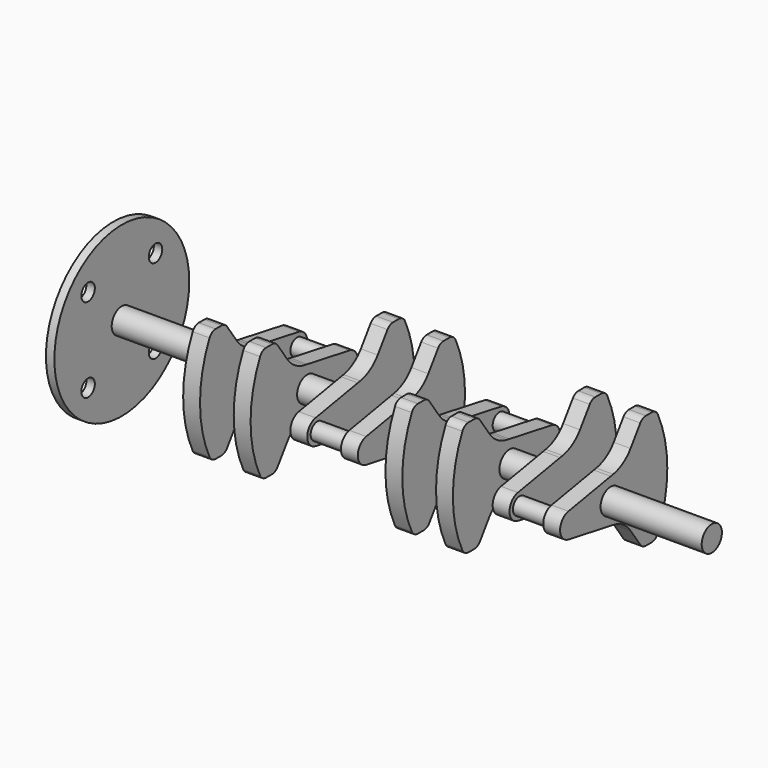
from build123d import *

# Parameters (mm, degrees)
F0_R      = 7.5
F1_DEPTH  = 70
F2_START  = 70
F0_R_2    = 5
F2_DEPTH  = 10
F3_START  = 80
F3_DEPTH  = 20
F4_START  = 100
F4_DEPTH  = 10
F5_START  = 110
F5_DEPTH  = 20
F6_START  = 130
F6_DEPTH  = 10
F7_START  = 140
F7_DEPTH  = 20
F8_START  = 160
F8_DEPTH  = 10
F9_START  = 170
F9_DEPTH  = 20
F10_START = 190
F10_DEPTH = 10
F11_START = 200
F11_DEPTH = 20
F12_START = 220
F12_DEPTH = 10
F13_START = 230
F13_DEPTH = 20
F14_START = 250
F14_DEPTH = 10
F15_START = 260
F15_DEPTH = 20
F16_START = 280
F16_DEPTH = 10
F17_START = 290
F17_DEPTH = 60
F18_R     = 20
F19_R     = 5
F0_R_3    = 50
F20_DEPTH = 5
F21_R     = 5
F22_DEPTH = 5


with BuildPart() as f1:
    # F0 (on Right) → F1 (new body)
    with BuildSketch(Plane.YZ):
        Circle(F0_R)
    extrude(amount=F1_DEPTH)

    # F0 (on Right) → F2 (join)
    with BuildSketch(Plane.YZ.offset(F2_START)):
        with BuildLine():
            Line((-31.3023613325, 7.3860581476), (0, 12.9055090104))
            Line((0, 12.9055090104), (-10, 14.6687788175))
            Line((-10, 14.6687788175), (-23.4965642846, 33.9438701984))
            Line((-23.4965642846, 33.9438701984), (-33.4965642846, 33.9438701984))
            ThreePointArc((-33.4965642846, 33.9438701984), (-42, 0), (-33.4965642846, -33.9438701984))
            Line((-33.4965642846, -33.9438701984), (-23.4965642846, -33.9438701984))
            Line((-23.4965642846, -33.9438701984), (-10, -14.6687788175))
            Line((-10, -14.6687788175), (0, -12.9055090104))
            Line((0, -12.9055090104), (-31.3023613325, -7.3860581476))
            ThreePointArc((-31.3023613325, -7.3860581476), (-37.5, 0), (-31.3023613325, 7.3860581476))
        make_face()
        with Locations((-25, -25)):
            Circle(F0_R_2, mode=Mode.SUBTRACT)
        with Locations((-25, 25)):
            Circle(F0_R_2, mode=Mode.SUBTRACT)
        with BuildLine():
            ThreePointArc((31.3023613325, -7.3860581476), (37.5, 0), (31.3023613325, 7.3860581476))
            Line((31.3023613325, 7.3860581476), (0, 12.9055090104))
            Line((0, 12.9055090104), (-31.3023613325, 7.3860581476))
            ThreePointArc((-31.3023613325, 7.3860581476), (-37.5, 0), (-31.3023613325, -7.3860581476))
            Line((-31.3023613325, -7.3860581476), (0, -12.9055090104))
            Line((0, -12.9055090104), (31.3023613325, -7.3860581476))
        make_face()
        with Locations((-30, 0)):
            Circle(F0_R_2, mode=Mode.SUBTRACT)
        Circle(F0_R, mode=Mode.SUBTRACT)
        with Locations((30, 0)):
            Circle(F0_R_2, mode=Mode.SUBTRACT)
        with BuildLine():
            Line((-31.3023613325, 7.3860581476), (0, 12.9055090104))
            Line((0, 12.9055090104), (-10, 14.6687788175))
            Line((-10, 14.6687788175), (-23.4965642846, 33.9438701984))
            Line((-23.4965642846, 33.9438701984), (-33.4965642846, 33.9438701984))
            ThreePointArc((-33.4965642846, 33.9438701984), (-42, 0), (-33.4965642846, -33.9438701984))
            Line((-33.4965642846, -33.9438701984), (-23.4965642846, -33.9438701984))
            Line((-23.4965642846, -33.9438701984), (-10, -14.6687788175))
            Line((-10, -14.6687788175), (0, -12.9055090104))
            Line((0, -12.9055090104), (-31.3023613325, -7.3860581476))
            ThreePointArc((-31.3023613325, -7.3860581476), (-37.5, 0), (-31.3023613325, 7.3860581476))
        make_face()
        with Locations((-25, -25)):
            Circle(F0_R_2, mode=Mode.SUBTRACT)
        with Locations((-25, 25)):
            Circle(F0_R_2, mode=Mode.SUBTRACT)
        with BuildLine():
            ThreePointArc((31.3023613325, -7.3860581476), (37.5, 0), (31.3023613325, 7.3860581476))
            Line((31.3023613325, 7.3860581476), (0, 12.9055090104))
            Line((0, 12.9055090104), (-31.3023613325, 7.3860581476))
            ThreePointArc((-31.3023613325, 7.3860581476), (-37.5, 0), (-31.3023613325, -7.3860581476))
            Line((-31.3023613325, -7.3860581476), (0, -12.9055090104))
            Line((0, -12.9055090104), (31.3023613325, -7.3860581476))
        make_face()
        with Locations((-30, 0)):
            Circle(F0_R_2, mode=Mode.SUBTRACT)
        Circle(F0_R, mode=Mode.SUBTRACT)
        with Locations((30, 0)):
            Circle(F0_R_2, mode=Mode.SUBTRACT)
        with Locations((30, 0)):
            Circle(F0_R_2)
        Circle(F0_R)
        with Locations((-25, 25)):
            Circle(F0_R_2)
        with Locations((-25, -25)):
            Circle(F0_R_2)
        with Locations((-30, 0)):
            Circle(F0_R_2)
    extrude(amount=F2_DEPTH)

    # F0 (on Right) → F3 (join)
    with BuildSketch(Plane.YZ.offset(F3_START)):
        with Locations((30, 0)):
            Circle(F0_R_2)
    extrude(amount=F3_DEPTH)

    # F0 (on Right) → F4 (join)
    with BuildSketch(Plane.YZ.offset(F4_START)):
        with BuildLine():
            Line((-31.3023613325, 7.3860581476), (0, 12.9055090104))
            Line((0, 12.9055090104), (-10, 14.6687788175))
            Line((-10, 14.6687788175), (-23.4965642846, 33.9438701984))
            Line((-23.4965642846, 33.9438701984), (-33.4965642846, 33.9438701984))
            ThreePointArc((-33.4965642846, 33.9438701984), (-42, 0), (-33.4965642846, -33.9438701984))
            Line((-33.4965642846, -33.9438701984), (-23.4965642846, -33.9438701984))
            Line((-23.4965642846, -33.9438701984), (-10, -14.6687788175))
            Line((-10, -14.6687788175), (0, -12.9055090104))
            Line((0, -12.9055090104), (-31.3023613325, -7.3860581476))
            ThreePointArc((-31.3023613325, -7.3860581476), (-37.5, 0), (-31.3023613325, 7.3860581476))
        make_face()
        with Locations((-25, -25)):
            Circle(F0_R_2, mode=Mode.SUBTRACT)
        with Locations((-25, 25)):
            Circle(F0_R_2, mode=Mode.SUBTRACT)
        with BuildLine():
            ThreePointArc((31.3023613325, -7.3860581476), (37.5, 0), (31.3023613325, 7.3860581476))
            Line((31.3023613325, 7.3860581476), (0, 12.9055090104))
            Line((0, 12.9055090104), (-31.3023613325, 7.3860581476))
            ThreePointArc((-31.3023613325, 7.3860581476), (-37.5, 0), (-31.3023613325, -7.3860581476))
            Line((-31.3023613325, -7.3860581476), (0, -12.9055090104))
            Line((0, -12.9055090104), (31.3023613325, -7.3860581476))
        make_face()
        with Locations((-30, 0)):
            Circle(F0_R_2, mode=Mode.SUBTRACT)
        Circle(F0_R, mode=Mode.SUBTRACT)
        with Locations((30, 0)):
            Circle(F0_R_2, mode=Mode.SUBTRACT)
        with BuildLine():
            Line((-31.3023613325, 7.3860581476), (0, 12.9055090104))
            Line((0, 12.9055090104), (-10, 14.6687788175))
            Line((-10, 14.6687788175), (-23.4965642846, 33.9438701984))
            Line((-23.4965642846, 33.9438701984), (-33.4965642846, 33.9438701984))
            ThreePointArc((-33.4965642846, 33.9438701984), (-42, 0), (-33.4965642846, -33.9438701984))
            Line((-33.4965642846, -33.9438701984), (-23.4965642846, -33.9438701984))
            Line((-23.4965642846, -33.9438701984), (-10, -14.6687788175))
            Line((-10, -14.6687788175), (0, -12.9055090104))
            Line((0, -12.9055090104), (-31.3023613325, -7.3860581476))
            ThreePointArc((-31.3023613325, -7.3860581476), (-37.5, 0), (-31.3023613325, 7.3860581476))
        make_face()
        with Locations((-25, -25)):
            Circle(F0_R_2, mode=Mode.SUBTRACT)
        with Locations((-25, 25)):
            Circle(F0_R_2, mode=Mode.SUBTRACT)
        with BuildLine():
            ThreePointArc((31.3023613325, -7.3860581476), (37.5, 0), (31.3023613325, 7.3860581476))
            Line((31.3023613325, 7.3860581476), (0, 12.9055090104))
            Line((0, 12.9055090104), (-31.3023613325, 7.3860581476))
            ThreePointArc((-31.3023613325, 7.3860581476), (-37.5, 0), (-31.3023613325, -7.3860581476))
            Line((-31.3023613325, -7.3860581476), (0, -12.9055090104))
            Line((0, -12.9055090104), (31.3023613325, -7.3860581476))
        make_face()
        with Locations((-30, 0)):
            Circle(F0_R_2, mode=Mode.SUBTRACT)
        Circle(F0_R, mode=Mode.SUBTRACT)
        with Locations((30, 0)):
            Circle(F0_R_2, mode=Mode.SUBTRACT)
        with Locations((30, 0)):
            Circle(F0_R_2)
        Circle(F0_R)
        with Locations((-30, 0)):
            Circle(F0_R_2)
        with Locations((-25, 25)):
            Circle(F0_R_2)
        with Locations((-25, -25)):
            Circle(F0_R_2)
    extrude(amount=F4_DEPTH)

    # F0 (on Right) → F5 (join)
    with BuildSketch(Plane.YZ.offset(F5_START)):
        Circle(F0_R)
    extrude(amount=F5_DEPTH)

    # F0 (on Right) → F6 (join)
    with BuildSketch(Plane.YZ.offset(F6_START)):
        with BuildLine():
            Line((0, 12.9055090104), (31.3023613325, 7.3860581476))
            ThreePointArc((31.3023613325, 7.3860581476), (37.5, 0), (31.3023613325, -7.3860581476))
            Line((31.3023613325, -7.3860581476), (0, -12.9055090104))
            Line((0, -12.9055090104), (10, -14.6687788175))
            Line((10, -14.6687788175), (23.4965642846, -33.9438701984))
            Line((23.4965642846, -33.9438701984), (33.4965642846, -33.9438701984))
            ThreePointArc((33.4965642846, -33.9438701984), (42, 0), (33.4965642846, 33.9438701984))
            Line((33.4965642846, 33.9438701984), (23.4965642846, 33.9438701984))
            Line((23.4965642846, 33.9438701984), (10, 14.6687788175))
            Line((10, 14.6687788175), (0, 12.9055090104))
        make_face()
        with Locations((25, -25)):
            Circle(F0_R_2, mode=Mode.SUBTRACT)
        with Locations((25, 25)):
            Circle(F0_R_2, mode=Mode.SUBTRACT)
        with BuildLine():
            ThreePointArc((31.3023613325, -7.3860581476), (37.5, 0), (31.3023613325, 7.3860581476))
            Line((31.3023613325, 7.3860581476), (0, 12.9055090104))
            Line((0, 12.9055090104), (-31.3023613325, 7.3860581476))
            ThreePointArc((-31.3023613325, 7.3860581476), (-37.5, 0), (-31.3023613325, -7.3860581476))
            Line((-31.3023613325, -7.3860581476), (0, -12.9055090104))
            Line((0, -12.9055090104), (31.3023613325, -7.3860581476))
        make_face()
        with Locations((-30, 0)):
            Circle(F0_R_2, mode=Mode.SUBTRACT)
        Circle(F0_R, mode=Mode.SUBTRACT)
        with Locations((30, 0)):
            Circle(F0_R_2, mode=Mode.SUBTRACT)
        with BuildLine():
            Line((0, 12.9055090104), (31.3023613325, 7.3860581476))
            ThreePointArc((31.3023613325, 7.3860581476), (37.5, 0), (31.3023613325, -7.3860581476))
            Line((31.3023613325, -7.3860581476), (0, -12.9055090104))
            Line((0, -12.9055090104), (10, -14.6687788175))
            Line((10, -14.6687788175), (23.4965642846, -33.9438701984))
            Line((23.4965642846, -33.9438701984), (33.4965642846, -33.9438701984))
            ThreePointArc((33.4965642846, -33.9438701984), (42, 0), (33.4965642846, 33.9438701984))
            Line((33.4965642846, 33.9438701984), (23.4965642846, 33.9438701984))
            Line((23.4965642846, 33.9438701984), (10, 14.6687788175))
            Line((10, 14.6687788175), (0, 12.9055090104))
        make_face()
        with Locations((25, -25)):
            Circle(F0_R_2, mode=Mode.SUBTRACT)
        with Locations((25, 25)):
            Circle(F0_R_2, mode=Mode.SUBTRACT)
        with BuildLine():
            ThreePointArc((31.3023613325, -7.3860581476), (37.5, 0), (31.3023613325, 7.3860581476))
            Line((31.3023613325, 7.3860581476), (0, 12.9055090104))
            Line((0, 12.9055090104), (-31.3023613325, 7.3860581476))
            ThreePointArc((-31.3023613325, 7.3860581476), (-37.5, 0), (-31.3023613325, -7.3860581476))
            Line((-31.3023613325, -7.3860581476), (0, -12.9055090104))
            Line((0, -12.9055090104), (31.3023613325, -7.3860581476))
        make_face()
        with Locations((-30, 0)):
            Circle(F0_R_2, mode=Mode.SUBTRACT)
        Circle(F0_R, mode=Mode.SUBTRACT)
        with Locations((30, 0)):
            Circle(F0_R_2, mode=Mode.SUBTRACT)
        with Locations((-30, 0)):
            Circle(F0_R_2)
        Circle(F0_R)
        with Locations((25, 25)):
            Circle(F0_R_2)
        with Locations((30, 0)):
            Circle(F0_R_2)
        with Locations((25, -25)):
            Circle(F0_R_2)
    extrude(amount=F6_DEPTH)

    # F0 (on Right) → F7 (join)
    with BuildSketch(Plane.YZ.offset(F7_START)):
        with Locations((-30, 0)):
            Circle(F0_R_2)
    extrude(amount=F7_DEPTH)

    # F0 (on Right) → F8 (join)
    with BuildSketch(Plane.YZ.offset(F8_START)):
        with BuildLine():
            ThreePointArc((31.3023613325, -7.3860581476), (37.5, 0), (31.3023613325, 7.3860581476))
            Line((31.3023613325, 7.3860581476), (0, 12.9055090104))
            Line((0, 12.9055090104), (-31.3023613325, 7.3860581476))
            ThreePointArc((-31.3023613325, 7.3860581476), (-37.5, 0), (-31.3023613325, -7.3860581476))
            Line((-31.3023613325, -7.3860581476), (0, -12.9055090104))
            Line((0, -12.9055090104), (31.3023613325, -7.3860581476))
        make_face()
        with Locations((-30, 0)):
            Circle(F0_R_2, mode=Mode.SUBTRACT)
        Circle(F0_R, mode=Mode.SUBTRACT)
        with Locations((30, 0)):
            Circle(F0_R_2, mode=Mode.SUBTRACT)
        with BuildLine():
            ThreePointArc((31.3023613325, -7.3860581476), (37.5, 0), (31.3023613325, 7.3860581476))
            Line((31.3023613325, 7.3860581476), (0, 12.9055090104))
            Line((0, 12.9055090104), (-31.3023613325, 7.3860581476))
            ThreePointArc((-31.3023613325, 7.3860581476), (-37.5, 0), (-31.3023613325, -7.3860581476))
            Line((-31.3023613325, -7.3860581476), (0, -12.9055090104))
            Line((0, -12.9055090104), (31.3023613325, -7.3860581476))
        make_face()
        with Locations((-30, 0)):
            Circle(F0_R_2, mode=Mode.SUBTRACT)
        Circle(F0_R, mode=Mode.SUBTRACT)
        with Locations((30, 0)):
            Circle(F0_R_2, mode=Mode.SUBTRACT)
        with BuildLine():
            Line((0, 12.9055090104), (31.3023613325, 7.3860581476))
            ThreePointArc((31.3023613325, 7.3860581476), (37.5, 0), (31.3023613325, -7.3860581476))
            Line((31.3023613325, -7.3860581476), (0, -12.9055090104))
            Line((0, -12.9055090104), (10, -14.6687788175))
            Line((10, -14.6687788175), (23.4965642846, -33.9438701984))
            Line((23.4965642846, -33.9438701984), (33.4965642846, -33.9438701984))
            ThreePointArc((33.4965642846, -33.9438701984), (42, 0), (33.4965642846, 33.9438701984))
            Line((33.4965642846, 33.9438701984), (23.4965642846, 33.9438701984))
            Line((23.4965642846, 33.9438701984), (10, 14.6687788175))
            Line((10, 14.6687788175), (0, 12.9055090104))
        make_face()
        with Locations((25, -25)):
            Circle(F0_R_2, mode=Mode.SUBTRACT)
        with Locations((25, 25)):
            Circle(F0_R_2, mode=Mode.SUBTRACT)
        with Locations((-30, 0)):
            Circle(F0_R_2)
        Circle(F0_R)
        with BuildLine():
            Line((0, 12.9055090104), (31.3023613325, 7.3860581476))
            ThreePointArc((31.3023613325, 7.3860581476), (37.5, 0), (31.3023613325, -7.3860581476))
            Line((31.3023613325, -7.3860581476), (0, -12.9055090104))
            Line((0, -12.9055090104), (10, -14.6687788175))
            Line((10, -14.6687788175), (23.4965642846, -33.9438701984))
            Line((23.4965642846, -33.9438701984), (33.4965642846, -33.9438701984))
            ThreePointArc((33.4965642846, -33.9438701984), (42, 0), (33.4965642846, 33.9438701984))
            Line((33.4965642846, 33.9438701984), (23.4965642846, 33.9438701984))
            Line((23.4965642846, 33.9438701984), (10, 14.6687788175))
            Line((10, 14.6687788175), (0, 12.9055090104))
        make_face()
        with Locations((25, -25)):
            Circle(F0_R_2, mode=Mode.SUBTRACT)
        with Locations((25, 25)):
            Circle(F0_R_2, mode=Mode.SUBTRACT)
        with Locations((25, 25)):
            Circle(F0_R_2)
        with Locations((30, 0)):
            Circle(F0_R_2)
        with Locations((25, -25)):
            Circle(F0_R_2)
    extrude(amount=F8_DEPTH)

    # F0 (on Right) → F9 (join)
    with BuildSketch(Plane.YZ.offset(F9_START)):
        Circle(F0_R)
    extrude(amount=F9_DEPTH)

    # F0 (on Right) → F10 (join)
    with BuildSketch(Plane.YZ.offset(F10_START)):
        with BuildLine():
            ThreePointArc((31.3023613325, -7.3860581476), (37.5, 0), (31.3023613325, 7.3860581476))
            Line((31.3023613325, 7.3860581476), (0, 12.9055090104))
            Line((0, 12.9055090104), (-31.3023613325, 7.3860581476))
            ThreePointArc((-31.3023613325, 7.3860581476), (-37.5, 0), (-31.3023613325, -7.3860581476))
            Line((-31.3023613325, -7.3860581476), (0, -12.9055090104))
            Line((0, -12.9055090104), (31.3023613325, -7.3860581476))
        make_face()
        with Locations((-30, 0)):
            Circle(F0_R_2, mode=Mode.SUBTRACT)
        Circle(F0_R, mode=Mode.SUBTRACT)
        with Locations((30, 0)):
            Circle(F0_R_2, mode=Mode.SUBTRACT)
        with BuildLine():
            Line((-31.3023613325, 7.3860581476), (0, 12.9055090104))
            Line((0, 12.9055090104), (-10, 14.6687788175))
            Line((-10, 14.6687788175), (-23.4965642846, 33.9438701984))
            Line((-23.4965642846, 33.9438701984), (-33.4965642846, 33.9438701984))
            ThreePointArc((-33.4965642846, 33.9438701984), (-42, 0), (-33.4965642846, -33.9438701984))
            Line((-33.4965642846, -33.9438701984), (-23.4965642846, -33.9438701984))
            Line((-23.4965642846, -33.9438701984), (-10, -14.6687788175))
            Line((-10, -14.6687788175), (0, -12.9055090104))
            Line((0, -12.9055090104), (-31.3023613325, -7.3860581476))
            ThreePointArc((-31.3023613325, -7.3860581476), (-37.5, 0), (-31.3023613325, 7.3860581476))
        make_face()
        with Locations((-25, -25)):
            Circle(F0_R_2, mode=Mode.SUBTRACT)
        with Locations((-25, 25)):
            Circle(F0_R_2, mode=Mode.SUBTRACT)
        Circle(F0_R)
        with Locations((-25, 25)):
            Circle(F0_R_2)
        with Locations((-30, 0)):
            Circle(F0_R_2)
        with Locations((-25, -25)):
            Circle(F0_R_2)
        with Locations((30, 0)):
            Circle(F0_R_2)
    extrude(amount=F10_DEPTH)

    # F0 (on Right) → F11 (join)
    with BuildSketch(Plane.YZ.offset(F11_START)):
        with Locations((30, 0)):
            Circle(F0_R_2)
    extrude(amount=F11_DEPTH)

    # F0 (on Right) → F12 (join)
    with BuildSketch(Plane.YZ.offset(F12_START)):
        with BuildLine():
            ThreePointArc((31.3023613325, -7.3860581476), (37.5, 0), (31.3023613325, 7.3860581476))
            Line((31.3023613325, 7.3860581476), (0, 12.9055090104))
            Line((0, 12.9055090104), (-31.3023613325, 7.3860581476))
            ThreePointArc((-31.3023613325, 7.3860581476), (-37.5, 0), (-31.3023613325, -7.3860581476))
            Line((-31.3023613325, -7.3860581476), (0, -12.9055090104))
            Line((0, -12.9055090104), (31.3023613325, -7.3860581476))
        make_face()
        with Locations((-30, 0)):
            Circle(F0_R_2, mode=Mode.SUBTRACT)
        Circle(F0_R, mode=Mode.SUBTRACT)
        with Locations((30, 0)):
            Circle(F0_R_2, mode=Mode.SUBTRACT)
        with BuildLine():
            Line((-31.3023613325, 7.3860581476), (0, 12.9055090104))
            Line((0, 12.9055090104), (-10, 14.6687788175))
            Line((-10, 14.6687788175), (-23.4965642846, 33.9438701984))
            Line((-23.4965642846, 33.9438701984), (-33.4965642846, 33.9438701984))
            ThreePointArc((-33.4965642846, 33.9438701984), (-42, 0), (-33.4965642846, -33.9438701984))
            Line((-33.4965642846, -33.9438701984), (-23.4965642846, -33.9438701984))
            Line((-23.4965642846, -33.9438701984), (-10, -14.6687788175))
            Line((-10, -14.6687788175), (0, -12.9055090104))
            Line((0, -12.9055090104), (-31.3023613325, -7.3860581476))
            ThreePointArc((-31.3023613325, -7.3860581476), (-37.5, 0), (-31.3023613325, 7.3860581476))
        make_face()
        with Locations((-25, -25)):
            Circle(F0_R_2, mode=Mode.SUBTRACT)
        with Locations((-25, 25)):
            Circle(F0_R_2, mode=Mode.SUBTRACT)
        Circle(F0_R)
        with Locations((30, 0)):
            Circle(F0_R_2)
        with Locations((-25, -25)):
            Circle(F0_R_2)
        with Locations((-30, 0)):
            Circle(F0_R_2)
        with Locations((-25, 25)):
            Circle(F0_R_2)
    extrude(amount=F12_DEPTH)

    # F0 (on Right) → F13 (join)
    with BuildSketch(Plane.YZ.offset(F13_START)):
        Circle(F0_R)
    extrude(amount=F13_DEPTH)

    # F0 (on Right) → F14 (join)
    with BuildSketch(Plane.YZ.offset(F14_START)):
        with BuildLine():
            ThreePointArc((31.3023613325, -7.3860581476), (37.5, 0), (31.3023613325, 7.3860581476))
            Line((31.3023613325, 7.3860581476), (0, 12.9055090104))
            Line((0, 12.9055090104), (-31.3023613325, 7.3860581476))
            ThreePointArc((-31.3023613325, 7.3860581476), (-37.5, 0), (-31.3023613325, -7.3860581476))
            Line((-31.3023613325, -7.3860581476), (0, -12.9055090104))
            Line((0, -12.9055090104), (31.3023613325, -7.3860581476))
        make_face()
        with Locations((-30, 0)):
            Circle(F0_R_2, mode=Mode.SUBTRACT)
        Circle(F0_R, mode=Mode.SUBTRACT)
        with Locations((30, 0)):
            Circle(F0_R_2, mode=Mode.SUBTRACT)
        with BuildLine():
            Line((0, 12.9055090104), (31.3023613325, 7.3860581476))
            ThreePointArc((31.3023613325, 7.3860581476), (37.5, 0), (31.3023613325, -7.3860581476))
            Line((31.3023613325, -7.3860581476), (0, -12.9055090104))
            Line((0, -12.9055090104), (10, -14.6687788175))
            Line((10, -14.6687788175), (23.4965642846, -33.9438701984))
            Line((23.4965642846, -33.9438701984), (33.4965642846, -33.9438701984))
            ThreePointArc((33.4965642846, -33.9438701984), (42, 0), (33.4965642846, 33.9438701984))
            Line((33.4965642846, 33.9438701984), (23.4965642846, 33.9438701984))
            Line((23.4965642846, 33.9438701984), (10, 14.6687788175))
            Line((10, 14.6687788175), (0, 12.9055090104))
        make_face()
        with Locations((25, -25)):
            Circle(F0_R_2, mode=Mode.SUBTRACT)
        with Locations((25, 25)):
            Circle(F0_R_2, mode=Mode.SUBTRACT)
        Circle(F0_R)
        with Locations((30, 0)):
            Circle(F0_R_2)
        with Locations((25, 25)):
            Circle(F0_R_2)
        with Locations((25, -25)):
            Circle(F0_R_2)
        with Locations((-30, 0)):
            Circle(F0_R_2)
    extrude(amount=F14_DEPTH)

    # F0 (on Right) → F15 (join)
    with BuildSketch(Plane.YZ.offset(F15_START)):
        with Locations((-30, 0)):
            Circle(F0_R_2)
    extrude(amount=F15_DEPTH)

    # F0 (on Right) → F16 (join)
    with BuildSketch(Plane.YZ.offset(F16_START)):
        with BuildLine():
            ThreePointArc((31.3023613325, -7.3860581476), (37.5, 0), (31.3023613325, 7.3860581476))
            Line((31.3023613325, 7.3860581476), (0, 12.9055090104))
            Line((0, 12.9055090104), (-31.3023613325, 7.3860581476))
            ThreePointArc((-31.3023613325, 7.3860581476), (-37.5, 0), (-31.3023613325, -7.3860581476))
            Line((-31.3023613325, -7.3860581476), (0, -12.9055090104))
            Line((0, -12.9055090104), (31.3023613325, -7.3860581476))
        make_face()
        with Locations((-30, 0)):
            Circle(F0_R_2, mode=Mode.SUBTRACT)
        Circle(F0_R, mode=Mode.SUBTRACT)
        with Locations((30, 0)):
            Circle(F0_R_2, mode=Mode.SUBTRACT)
        with BuildLine():
            Line((0, 12.9055090104), (31.3023613325, 7.3860581476))
            ThreePointArc((31.3023613325, 7.3860581476), (37.5, 0), (31.3023613325, -7.3860581476))
            Line((31.3023613325, -7.3860581476), (0, -12.9055090104))
            Line((0, -12.9055090104), (10, -14.6687788175))
            Line((10, -14.6687788175), (23.4965642846, -33.9438701984))
            Line((23.4965642846, -33.9438701984), (33.4965642846, -33.9438701984))
            ThreePointArc((33.4965642846, -33.9438701984), (42, 0), (33.4965642846, 33.9438701984))
            Line((33.4965642846, 33.9438701984), (23.4965642846, 33.9438701984))
            Line((23.4965642846, 33.9438701984), (10, 14.6687788175))
            Line((10, 14.6687788175), (0, 12.9055090104))
        make_face()
        with Locations((25, -25)):
            Circle(F0_R_2, mode=Mode.SUBTRACT)
        with Locations((25, 25)):
            Circle(F0_R_2, mode=Mode.SUBTRACT)
        with Locations((25, -25)):
            Circle(F0_R_2)
        with Locations((30, 0)):
            Circle(F0_R_2)
        with Locations((25, 25)):
            Circle(F0_R_2)
        Circle(F0_R)
        with Locations((-30, 0)):
            Circle(F0_R_2)
    extrude(amount=F16_DEPTH)

    # F0 (on Right) → F17 (join)
    with BuildSketch(Plane.YZ.offset(F17_START)):
        Circle(F0_R)
    extrude(amount=F17_DEPTH)

    # F18
    f18_edges = [f1.edges().sort_by_distance(p)[0] for p in [
        (75, -10, 14.668779),
        (105, -10, 14.668779),
        (135, 10, 14.668779),
        (165, 10, 14.668779),
        (165, 10, -14.668779),
        (135, 10, -14.668779),
        (75, -10, -14.668779),
        (105, -10, -14.668779),
        (195, -10, 14.668779),
        (225, -10, 14.668779),
        (255, 10, 14.668779),
        (285, 10, 14.668779),
        (195, -10, -14.668779),
        (225, -10, -14.668779),
        (255, 10, -14.668779),
        (285, 10, -14.668779),
    ]]
    fillet(f18_edges, radius=F18_R)

    # F19
    f19_edges = [f1.edges().sort_by_distance(p)[0] for p in [
        (75, -33.496564, 33.94387),
        (75, -23.496564, 33.94387),
        (105, -33.496564, 33.94387),
        (105, -23.496564, 33.94387),
        (135, 23.496564, 33.94387),
        (135, 33.496564, 33.94387),
        (165, 23.496564, 33.94387),
        (165, 33.496564, 33.94387),
        (75, -23.496564, -33.94387),
        (75, -33.496564, -33.94387),
        (105, -33.496564, -33.94387),
        (105, -23.496564, -33.94387),
        (135, 23.496564, -33.94387),
        (135, 33.496564, -33.94387),
        (165, 23.496564, -33.94387),
        (165, 33.496564, -33.94387),
        (195, -23.496564, 33.94387),
        (195, -33.496564, 33.94387),
        (225, -23.496564, 33.94387),
        (225, -33.496564, 33.94387),
        (255, 33.496564, 33.94387),
        (255, 23.496564, 33.94387),
        (285, 23.496564, 33.94387),
        (285, 33.496564, 33.94387),
        (285, 23.496564, -33.94387),
        (285, 33.496564, -33.94387),
        (255, 33.496564, -33.94387),
        (255, 23.496564, -33.94387),
        (195, -33.496564, -33.94387),
        (195, -23.496564, -33.94387),
        (225, -33.496564, -33.94387),
        (225, -23.496564, -33.94387),
    ]]
    fillet(f19_edges, radius=F19_R)

    # F0 (on Right) → F20 (join)
    with BuildSketch(Plane.YZ):
        Circle(F0_R_3)
        with BuildLine():
            Line((-10, 14.6687788175), (0, 12.9055090104))
            Line((0, 12.9055090104), (10, 14.6687788175))
            Line((10, 14.6687788175), (23.4965642846, 33.9438701984))
            Line((23.4965642846, 33.9438701984), (33.4965642846, 33.9438701984))
            ThreePointArc((33.4965642846, 33.9438701984), (42, 0), (33.4965642846, -33.9438701984))
            Line((33.4965642846, -33.9438701984), (23.4965642846, -33.9438701984))
            Line((23.4965642846, -33.9438701984), (10, -14.6687788175))
            Line((10, -14.6687788175), (0, -12.9055090104))
            Line((0, -12.9055090104), (-10, -14.6687788175))
            Line((-10, -14.6687788175), (-23.4965642846, -33.9438701984))
            Line((-23.4965642846, -33.9438701984), (-33.4965642846, -33.9438701984))
            ThreePointArc((-33.4965642846, -33.9438701984), (-42, 0), (-33.4965642846, 33.9438701984))
            Line((-33.4965642846, 33.9438701984), (-23.4965642846, 33.9438701984))
            Line((-23.4965642846, 33.9438701984), (-10, 14.6687788175))
        make_face(mode=Mode.SUBTRACT)
        with BuildLine():
            ThreePointArc((31.3023613325, -7.3860581476), (37.5, 0), (31.3023613325, 7.3860581476))
            Line((31.3023613325, 7.3860581476), (0, 12.9055090104))
            Line((0, 12.9055090104), (-31.3023613325, 7.3860581476))
            ThreePointArc((-31.3023613325, 7.3860581476), (-37.5, 0), (-31.3023613325, -7.3860581476))
            Line((-31.3023613325, -7.3860581476), (0, -12.9055090104))
            Line((0, -12.9055090104), (31.3023613325, -7.3860581476))
        make_face()
        with Locations((-30, 0)):
            Circle(F0_R_2, mode=Mode.SUBTRACT)
        Circle(F0_R, mode=Mode.SUBTRACT)
        with Locations((30, 0)):
            Circle(F0_R_2, mode=Mode.SUBTRACT)
        with BuildLine():
            ThreePointArc((31.3023613325, -7.3860581476), (37.5, 0), (31.3023613325, 7.3860581476))
            Line((31.3023613325, 7.3860581476), (0, 12.9055090104))
            Line((0, 12.9055090104), (-31.3023613325, 7.3860581476))
            ThreePointArc((-31.3023613325, 7.3860581476), (-37.5, 0), (-31.3023613325, -7.3860581476))
            Line((-31.3023613325, -7.3860581476), (0, -12.9055090104))
            Line((0, -12.9055090104), (31.3023613325, -7.3860581476))
        make_face()
        with Locations((-30, 0)):
            Circle(F0_R_2, mode=Mode.SUBTRACT)
        Circle(F0_R, mode=Mode.SUBTRACT)
        with Locations((30, 0)):
            Circle(F0_R_2, mode=Mode.SUBTRACT)
        with BuildLine():
            ThreePointArc((31.3023613325, -7.3860581476), (37.5, 0), (31.3023613325, 7.3860581476))
            Line((31.3023613325, 7.3860581476), (0, 12.9055090104))
            Line((0, 12.9055090104), (-31.3023613325, 7.3860581476))
            ThreePointArc((-31.3023613325, 7.3860581476), (-37.5, 0), (-31.3023613325, -7.3860581476))
            Line((-31.3023613325, -7.3860581476), (0, -12.9055090104))
            Line((0, -12.9055090104), (31.3023613325, -7.3860581476))
        make_face()
        with Locations((-30, 0)):
            Circle(F0_R_2, mode=Mode.SUBTRACT)
        Circle(F0_R, mode=Mode.SUBTRACT)
        with Locations((30, 0)):
            Circle(F0_R_2, mode=Mode.SUBTRACT)
        with BuildLine():
            Line((0, 12.9055090104), (31.3023613325, 7.3860581476))
            ThreePointArc((31.3023613325, 7.3860581476), (37.5, 0), (31.3023613325, -7.3860581476))
            Line((31.3023613325, -7.3860581476), (0, -12.9055090104))
            Line((0, -12.9055090104), (10, -14.6687788175))
            Line((10, -14.6687788175), (23.4965642846, -33.9438701984))
            Line((23.4965642846, -33.9438701984), (33.4965642846, -33.9438701984))
            ThreePointArc((33.4965642846, -33.9438701984), (42, 0), (33.4965642846, 33.9438701984))
            Line((33.4965642846, 33.9438701984), (23.4965642846, 33.9438701984))
            Line((23.4965642846, 33.9438701984), (10, 14.6687788175))
            Line((10, 14.6687788175), (0, 12.9055090104))
        make_face()
        with Locations((25, -25)):
            Circle(F0_R_2, mode=Mode.SUBTRACT)
        with Locations((25, 25)):
            Circle(F0_R_2, mode=Mode.SUBTRACT)
        with BuildLine():
            Line((-31.3023613325, 7.3860581476), (0, 12.9055090104))
            Line((0, 12.9055090104), (-10, 14.6687788175))
            Line((-10, 14.6687788175), (-23.4965642846, 33.9438701984))
            Line((-23.4965642846, 33.9438701984), (-33.4965642846, 33.9438701984))
            ThreePointArc((-33.4965642846, 33.9438701984), (-42, 0), (-33.4965642846, -33.9438701984))
            Line((-33.4965642846, -33.9438701984), (-23.4965642846, -33.9438701984))
            Line((-23.4965642846, -33.9438701984), (-10, -14.6687788175))
            Line((-10, -14.6687788175), (0, -12.9055090104))
            Line((0, -12.9055090104), (-31.3023613325, -7.3860581476))
            ThreePointArc((-31.3023613325, -7.3860581476), (-37.5, 0), (-31.3023613325, 7.3860581476))
        make_face()
        with Locations((-25, -25)):
            Circle(F0_R_2, mode=Mode.SUBTRACT)
        with Locations((-25, 25)):
            Circle(F0_R_2, mode=Mode.SUBTRACT)
        with BuildLine():
            Line((0, 12.9055090104), (31.3023613325, 7.3860581476))
            ThreePointArc((31.3023613325, 7.3860581476), (37.5, 0), (31.3023613325, -7.3860581476))
            Line((31.3023613325, -7.3860581476), (0, -12.9055090104))
            Line((0, -12.9055090104), (10, -14.6687788175))
            Line((10, -14.6687788175), (23.4965642846, -33.9438701984))
            Line((23.4965642846, -33.9438701984), (33.4965642846, -33.9438701984))
            ThreePointArc((33.4965642846, -33.9438701984), (42, 0), (33.4965642846, 33.9438701984))
            Line((33.4965642846, 33.9438701984), (23.4965642846, 33.9438701984))
            Line((23.4965642846, 33.9438701984), (10, 14.6687788175))
            Line((10, 14.6687788175), (0, 12.9055090104))
        make_face()
        with Locations((25, -25)):
            Circle(F0_R_2, mode=Mode.SUBTRACT)
        with Locations((25, 25)):
            Circle(F0_R_2, mode=Mode.SUBTRACT)
        with BuildLine():
            Line((0, 12.9055090104), (31.3023613325, 7.3860581476))
            ThreePointArc((31.3023613325, 7.3860581476), (37.5, 0), (31.3023613325, -7.3860581476))
            Line((31.3023613325, -7.3860581476), (0, -12.9055090104))
            Line((0, -12.9055090104), (10, -14.6687788175))
            Line((10, -14.6687788175), (23.4965642846, -33.9438701984))
            Line((23.4965642846, -33.9438701984), (33.4965642846, -33.9438701984))
            ThreePointArc((33.4965642846, -33.9438701984), (42, 0), (33.4965642846, 33.9438701984))
            Line((33.4965642846, 33.9438701984), (23.4965642846, 33.9438701984))
            Line((23.4965642846, 33.9438701984), (10, 14.6687788175))
            Line((10, 14.6687788175), (0, 12.9055090104))
        make_face()
        with Locations((25, -25)):
            Circle(F0_R_2, mode=Mode.SUBTRACT)
        with Locations((25, 25)):
            Circle(F0_R_2, mode=Mode.SUBTRACT)
        with BuildLine():
            Line((-31.3023613325, 7.3860581476), (0, 12.9055090104))
            Line((0, 12.9055090104), (-10, 14.6687788175))
            Line((-10, 14.6687788175), (-23.4965642846, 33.9438701984))
            Line((-23.4965642846, 33.9438701984), (-33.4965642846, 33.9438701984))
            ThreePointArc((-33.4965642846, 33.9438701984), (-42, 0), (-33.4965642846, -33.9438701984))
            Line((-33.4965642846, -33.9438701984), (-23.4965642846, -33.9438701984))
            Line((-23.4965642846, -33.9438701984), (-10, -14.6687788175))
            Line((-10, -14.6687788175), (0, -12.9055090104))
            Line((0, -12.9055090104), (-31.3023613325, -7.3860581476))
            ThreePointArc((-31.3023613325, -7.3860581476), (-37.5, 0), (-31.3023613325, 7.3860581476))
        make_face()
        with Locations((-25, -25)):
            Circle(F0_R_2, mode=Mode.SUBTRACT)
        with Locations((-25, 25)):
            Circle(F0_R_2, mode=Mode.SUBTRACT)
        Circle(F0_R)
        with Locations((-30, 0)):
            Circle(F0_R_2)
        with Locations((30, 0)):
            Circle(F0_R_2)
    extrude(amount=-F20_DEPTH)

    # F21 (on face) → F22 (cut)
    with BuildSketch(Plane(origin=(-5, 0, 0), x_dir=(0, -1, 0), z_dir=(-1, 0, 0))):
        Circle(F21_R)
    extrude(amount=-F22_DEPTH, mode=Mode.SUBTRACT)


solid = f1.part
